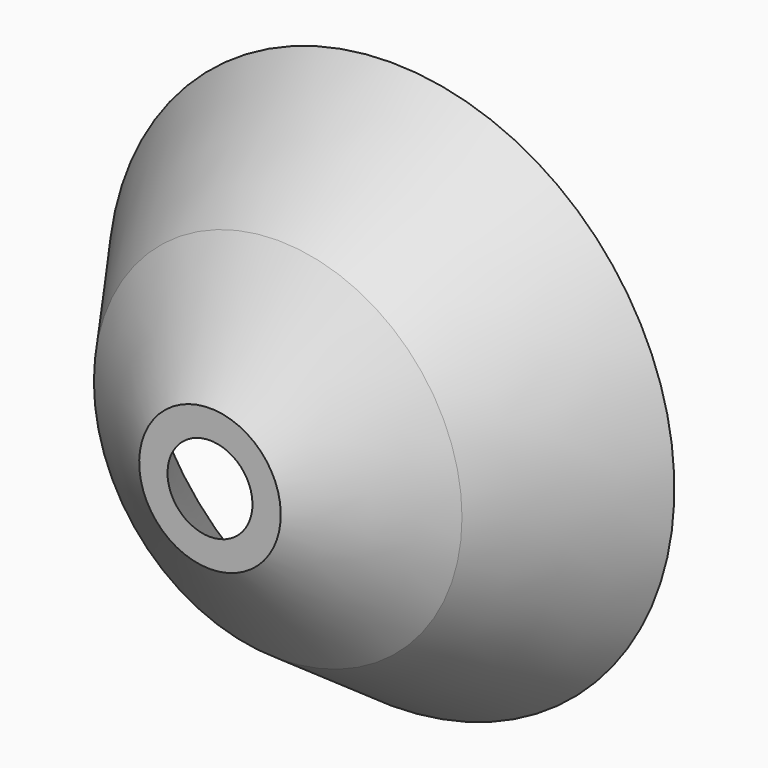
from build123d import *


with BuildPart() as f1:
    # F0 (on Right) → F1 (revolve)
    with BuildSketch(Plane.YZ):
        Polygon((-3, 10.369012), (-3, 9.369012), (0, 5.369012), (0, 6.369012), align=None)
    revolve(axis=Axis((0, -2.770185, 11.869012), (0, -1, 0)))

    # F0 (on Right) → F2 (revolve)
    with BuildSketch(Plane.YZ):
        Polygon((0, 6.369012), (0, 5.369012), (5, 1.869012), (5, 2.869012), align=None)
    revolve(axis=Axis((0, 6.585286, 11.869012), (0, 1, 0)))


solid = f1.part
